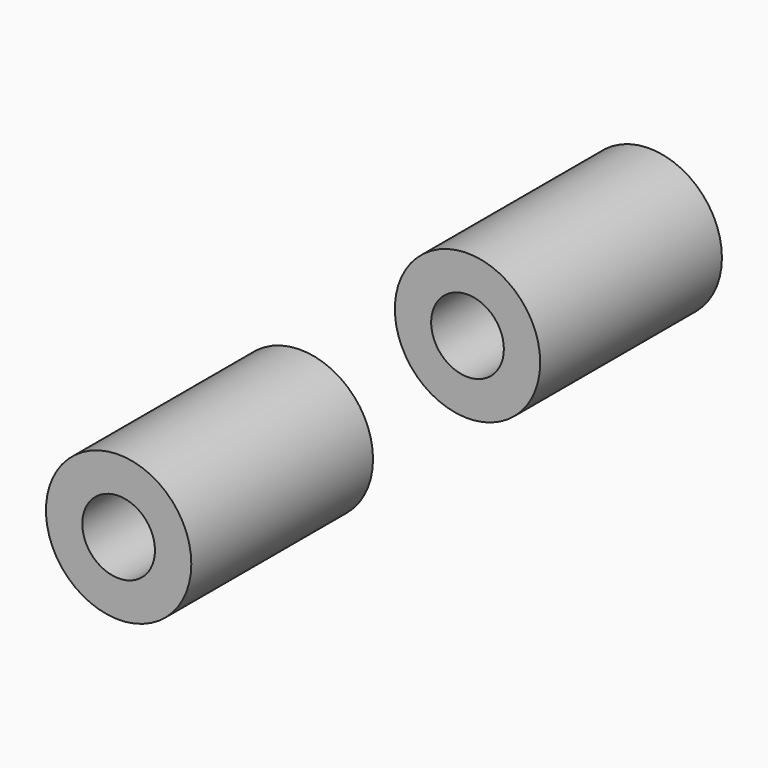
from build123d import *

# Parameters (mm, degrees)
LM8UU_0_INT_R          = 4
LM8UU_0_INT_DEPTH      = 27
LM8UU_0_INT_ROLL_ANGLE = -90
LM8UU_0_EXT_R          = 8
LM8UU_0_EXT_DEPTH      = 25
LM8UU_0_EXT_ROLL_ANGLE = -90


with BuildPart() as lm8uu_0_int:
    # lm8uu_0_int → lm8uu_0_int (new body)
    with BuildSketch(Plane.XY):
        Circle(LM8UU_0_INT_R)
    extrude(amount=LM8UU_0_INT_DEPTH)


with BuildPart() as lm8uu_0_int_1:
    # lm8uu_0_int roll: moved
    add(lm8uu_0_int.part.rotate(Axis((0, 0, 0), (1, 0, 0)), LM8UU_0_INT_ROLL_ANGLE))


with BuildPart() as lm8uu_0_int_2:
    # lm8uu_0_int placement: moved
    add(lm8uu_0_int_1.part.moved(Location((0, -37.5, 0))))


with BuildPart() as lm8uu_0_body:
    # lm8uu_0_ext → lm8uu_0_ext (new body)
    with BuildSketch(Plane.XY):
        Circle(LM8UU_0_EXT_R)
    extrude(amount=LM8UU_0_EXT_DEPTH)


with BuildPart() as lm8uu_0_body_1:
    # lm8uu_0_ext roll: moved
    add(lm8uu_0_body.part.rotate(Axis((0, 0, 0), (1, 0, 0)), LM8UU_0_EXT_ROLL_ANGLE))


with BuildPart() as lm8uu_0_body_2:
    # lm8uu_0_ext placement: moved
    add(lm8uu_0_body_1.part.moved(Location((0, -36.5, 0))))

    # lm8uu_0: cut lm8uu_0_int
    add(lm8uu_0_int_2.part, mode=Mode.SUBTRACT)


with BuildPart() as clone:
    # Clone base: copy of lm8uu_0 body
    add(lm8uu_0_body_2.part)


with BuildPart() as clone_1:
    # Clone placement: moved
    add(clone.part.moved(Location((0, 48, 0))))


with BuildPart() as obj1:
    # obj1 base: copy of lm8uu_0 body
    add(lm8uu_0_body_2.part)

    # obj1: union Clone
    add(clone_1.part)


with BuildPart() as obj1_1:
    # obj1 placement: moved
    add(obj1.part.moved(Location((-85.25, 0, 0))))


solid = obj1_1.part
